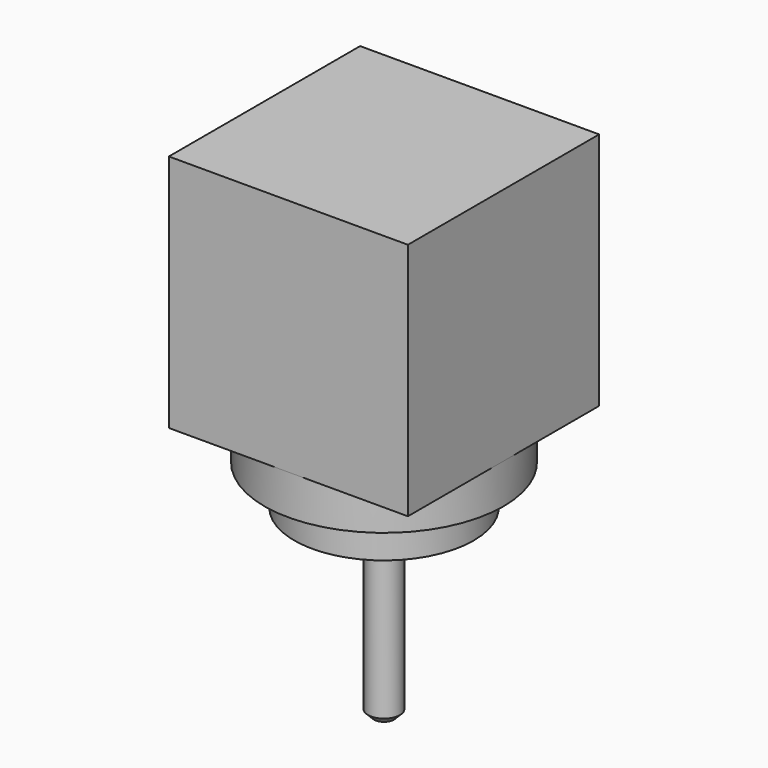
from build123d import *

# Parameters (mm, degrees)
F0_W     = 30
F0_H     = 30
F1_DEPTH = 30
F2_R     = 15
F3_DEPTH = 5
F4_R     = 11.25
F5_DEPTH = 5
F6_W     = 4
F6_H     = 4
F7_DEPTH = 4
F8_R     = 2
F9_DEPTH = 19.05
F10_SIZE = 0.762
F11_R    = 0.254


with BuildPart() as f1:
    # F0 (on Top) → F1 (new body)
    with BuildSketch(Plane.XY):
        Rectangle(F0_W, F0_H)
    extrude(amount=F1_DEPTH)

    # F2 (on face) → F3 (join)
    with BuildSketch(Plane(origin=(0, 0, 0), x_dir=(1, 0, 0), z_dir=(0, 0, -1))):
        Circle(F2_R)
    extrude(amount=F3_DEPTH)

    # F4 (on face) → F5 (join)
    with BuildSketch(Plane(origin=(0, 0, -5), x_dir=(1, 0, 0), z_dir=(0, 0, -1))):
        Circle(F4_R)
    extrude(amount=F5_DEPTH)

    # F6 (on face) → F7 (join)
    with BuildSketch(Plane(origin=(0, 0, -10), x_dir=(1, 0, 0), z_dir=(0, 0, -1))):
        Rectangle(F6_W, F6_H)
    extrude(amount=F7_DEPTH)

    # F8 (on face) → F9 (join)
    with BuildSketch(Plane(origin=(0, 0, -14), x_dir=(1, 0, 0), z_dir=(0, 0, -1))):
        Circle(F8_R)
    extrude(amount=F9_DEPTH)

    # F10
    f10_edges = [f1.edges().sort_by_distance(p)[0] for p in [
        (-2, 0, -33.05),
    ]]
    chamfer(f10_edges, length=F10_SIZE)

    # F11
    f11_edges = [f1.edges().sort_by_distance(p)[0] for p in [
        (-2, 2, -12),
        (-2, -2, -12),
        (2, -2, -12),
        (2, 2, -12),
    ]]
    fillet(f11_edges, radius=F11_R)


solid = f1.part
